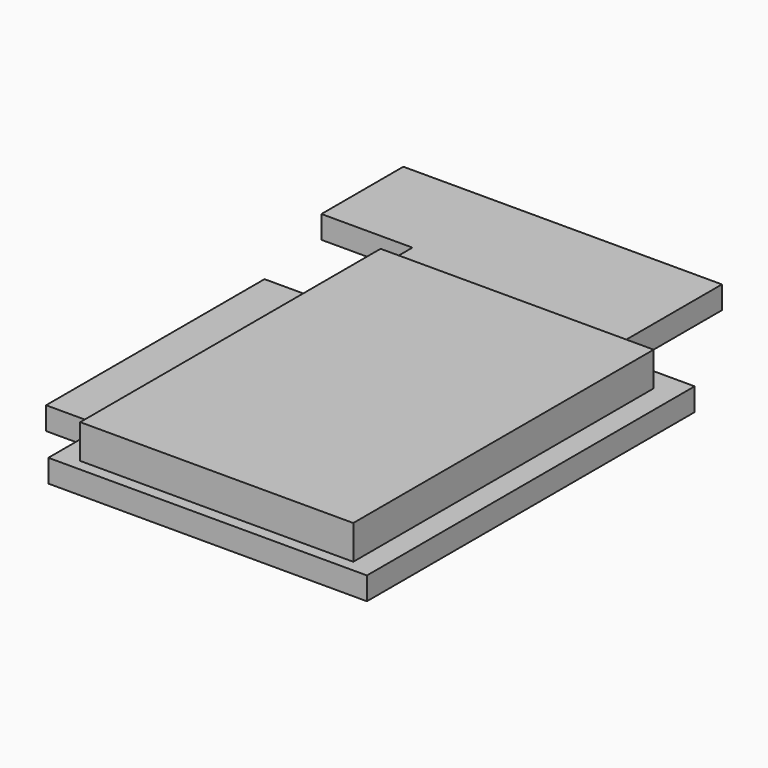
from build123d import *

# Parameters (mm, degrees)
PAD_DEPTH    = 1
SKETCH001_W  = 12
SKETCH001_H  = 16.5
PAD001_DEPTH = 1.5


with BuildPart() as part:
    # Sketch → Pad (new body)
    with BuildSketch(Plane.XY):
        Polygon((0, 24.5), (14, 24.5), (14, 18), (18, 18), (18, 0), (4, 0), (4, 3), (1.5, 3), (1.5, 15), (4, 15), (4, 20), (0, 20), align=None)
    extrude(amount=PAD_DEPTH)

    # Sketch001 (on Face14 of Pad) → Pad001 (join)
    with BuildSketch(Plane.XY.offset(1)):
        with Locations((11, 8.75)):
            Rectangle(SKETCH001_W, SKETCH001_H)
    extrude(amount=PAD001_DEPTH)


solid = part.part
